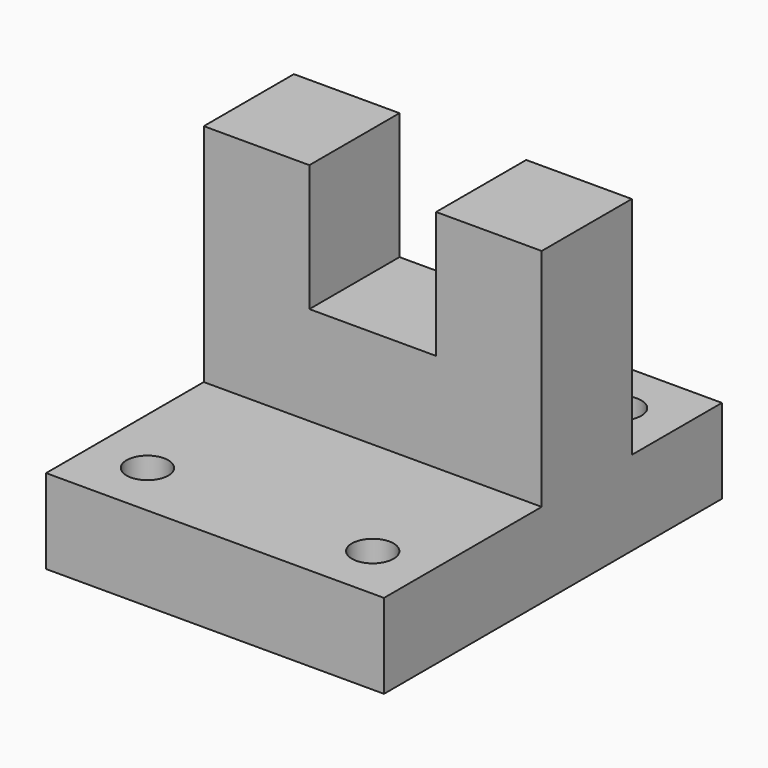
from build123d import *

# Parameters (mm, degrees)
F1_DEPTH      = 76.2
F2_W          = 28.575
F2_H          = 57.15
F3_DEPTH      = 38.063829867
F3_DEPTH_BACK = 25.4
F4_R          = 4.699
F5_DEPTH      = 19.051


with BuildPart() as f1:
    # F0 (on Right) → F1 (new body)
    with BuildSketch(Plane.YZ):
        Polygon((-57.187170133, 0), (-57.187170133, -19.05), (38.062829867, -19.05), (38.062829867, 0), (12.662829867, 0), (12.662829867, 50.8), (-12.737170133, 50.8), (-12.737170133, 0), align=None)
    extrude(amount=F1_DEPTH)

    # F2 (on Front) → F3 (cut, two sides)
    with BuildSketch(Plane.XZ) as f3_sk:
        with Locations((38.1, 50.8)):
            Rectangle(F2_W, F2_H)
    extrude(amount=-F3_DEPTH, mode=Mode.SUBTRACT)
    extrude(f3_sk.sketch, amount=F3_DEPTH_BACK, mode=Mode.SUBTRACT)

    # F4 (on Top) → F5 (cut, through all)
    with BuildSketch(Plane.XY):
        with Locations((12.7, 25.362829867)):
            Circle(F4_R)
        with Locations((63.5, 25.362829867)):
            Circle(F4_R)
        with Locations((12.7, -44.487170133)):
            Circle(F4_R)
        with Locations((63.5, -44.487170133)):
            Circle(F4_R)
    extrude(amount=-F5_DEPTH, mode=Mode.SUBTRACT)


solid = f1.part
